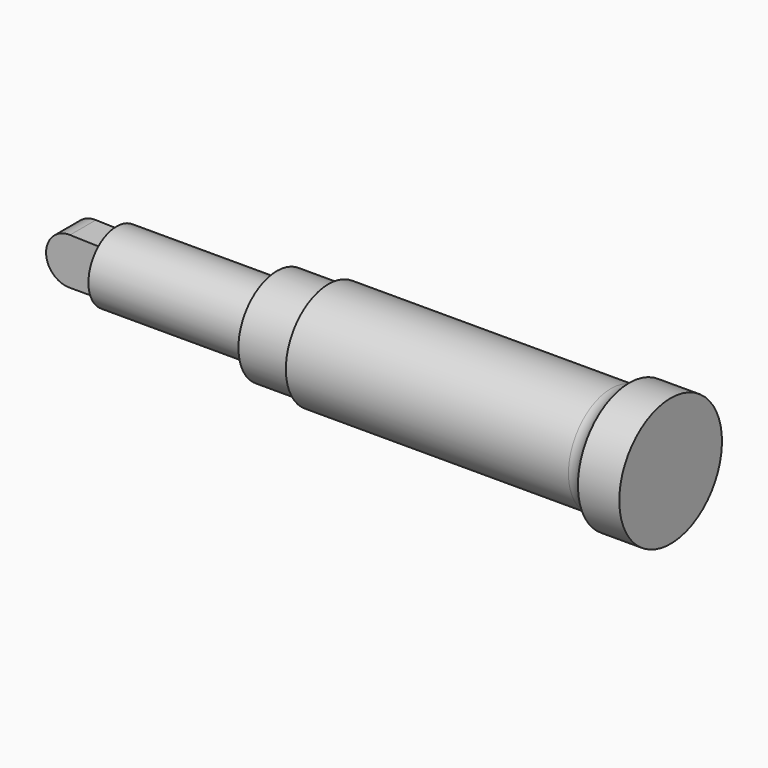
from build123d import *

# Parameters (mm, degrees)
F3_DEPTH = 15.875


with BuildPart() as f1:
    # F0 (on Front) → F1 (revolve)
    with BuildSketch(Plane.XZ):
        with BuildLine():
            Line((383.68211, 34.572985), (383.68211, 0))
            Line((383.68211, 0), (423.646011, 0))
            Line((423.646011, 0), (423.646011, 22.86))
            Line((423.646011, 22.86), (423.646011, 63.004903))
            Line((423.646011, 63.004903), (383.006011, 63.004903))
            Line((383.006011, 63.004903), (382.949919, 62.902614))
            ThreePointArc((382.949919, 62.902614), (375.485991, 55.188187), (365.133009, 52.352985))
            Line((365.133009, 52.352985), (87.604752, 52.352985))
            Line((87.604752, 52.352985), (87.604752, 47.272985))
            Line((87.604752, 47.272985), (44.59211, 47.272985))
            Line((44.59211, 47.272985), (36.97211, 47.272985))
            Line((36.97211, 47.272985), (36.97211, 34.572985))
            Line((36.97211, 34.572985), (383.68211, 34.572985))
        make_face()
    revolve(axis=Axis((179.978765, 0, 0), (1, 0, 0)))


with BuildPart() as f2:
    # F0 (on Front) → F2 (revolve)
    with BuildSketch(Plane.XZ):
        Polygon((-120.50789, 21.872985), (-120.838481, 0), (383.68211, 0), (383.68211, 34.572985), (36.97211, 34.572985), (-120.50789, 34.572985), align=None)
    revolve(axis=Axis((179.978765, 0, 0), (1, 0, 0)))

    # F0 (on Front) → F3 (join, symmetric)
    with BuildSketch(Plane.XZ):
        with BuildLine():
            ThreePointArc((-153.52789, 22.85), (-137.802233, 15.92363), (-131.343989, 0))
            Line((-131.343989, 0), (-120.838481, 0))
            Line((-120.838481, 0), (-120.50789, 21.872985))
            Line((-120.50789, 21.872985), (-153.52789, 22.85))
        make_face()
        with BuildLine():
            Line((-120.838481, 0), (-131.343989, 0))
            ThreePointArc((-131.343989, 0), (-138.039528, -16.164461), (-154.203989, -22.86))
            Line((-154.203989, -22.86), (-121.183989, -22.86))
            Line((-121.183989, -22.86), (-120.838481, 0))
        make_face()
        with BuildLine():
            ThreePointArc((-154.203989, -22.86), (-138.039528, -16.164461), (-131.343989, 0))
            Line((-131.343989, 0), (-154.203989, 0))
            Line((-154.203989, 0), (-154.203989, -22.86))
        make_face()
        with BuildLine():
            Line((-154.203989, 0), (-131.343989, 0))
            ThreePointArc((-131.343989, 0), (-137.802233, 15.92363), (-153.52789, 22.85))
            ThreePointArc((-153.52789, 22.85), (-177.061489, 0.338086), (-154.203989, -22.86))
            Line((-154.203989, -22.86), (-154.203989, 0))
        make_face()
    extrude(amount=F3_DEPTH, both=True)


solid = Compound([f1.part, f2.part])
